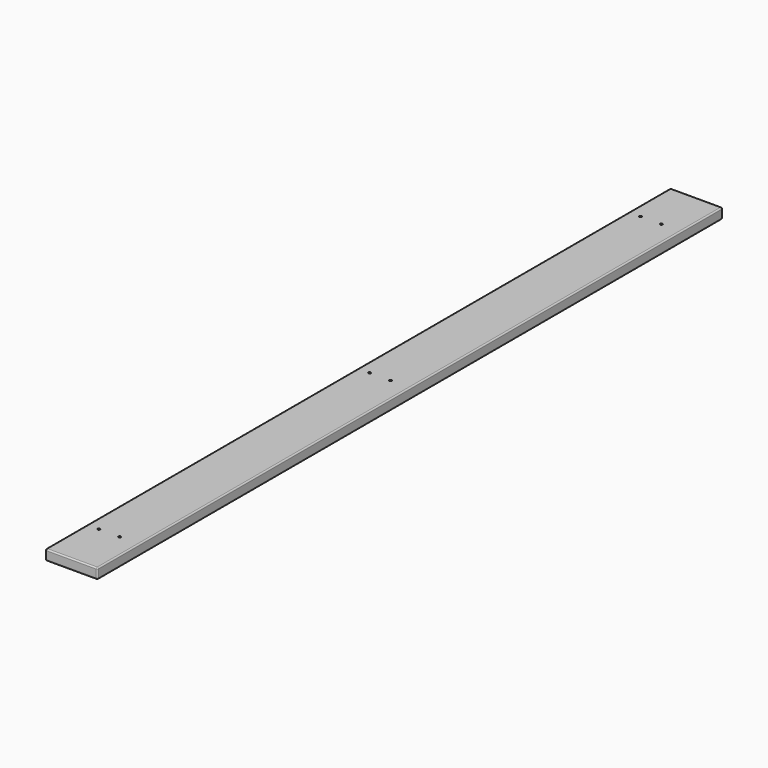
from build123d import *

# Parameters (mm, degrees)
F0_W     = 200
F0_H     = 40
F1_DEPTH = 3000
F2_R     = 4.5
F3_DEPTH = 40.001
F4_R     = 5


with BuildPart() as f1:
    # F0 (on Front) → F1 (new body)
    with BuildSketch(Plane.XZ):
        with Locations((100, 20)):
            Rectangle(F0_W, F0_H)
    extrude(amount=F1_DEPTH)

    # F2 (on face) → F3 (cut, through all)
    with BuildSketch(Plane.XY.offset(40)):
        with Locations((45, -2800)):
            Circle(F2_R)
        with Locations((125, -2800)):
            Circle(F2_R)
        with Locations((45, -200)):
            Circle(F2_R)
        with Locations((125, -200)):
            Circle(F2_R)
        with Locations((45, -1500)):
            Circle(F2_R)
        with Locations((125, -1500)):
            Circle(F2_R)
    extrude(amount=-F3_DEPTH, mode=Mode.SUBTRACT)

    # F4
    f4_edges = [f1.edges().sort_by_distance(p)[0] for p in [
        (0, -1500, 40),
        (0, -1500, 0),
        (200, -1500, 40),
        (200, -1500, 0),
        (100, -3000, 40),
        (100, -3000, 0),
        (0, -3000, 20),
        (200, -3000, 20),
        (200, 0, 20),
        (100, 0, 40),
        (100, 0, 0),
        (0, 0, 20),
    ]]
    fillet(f4_edges, radius=F4_R)


solid = f1.part
